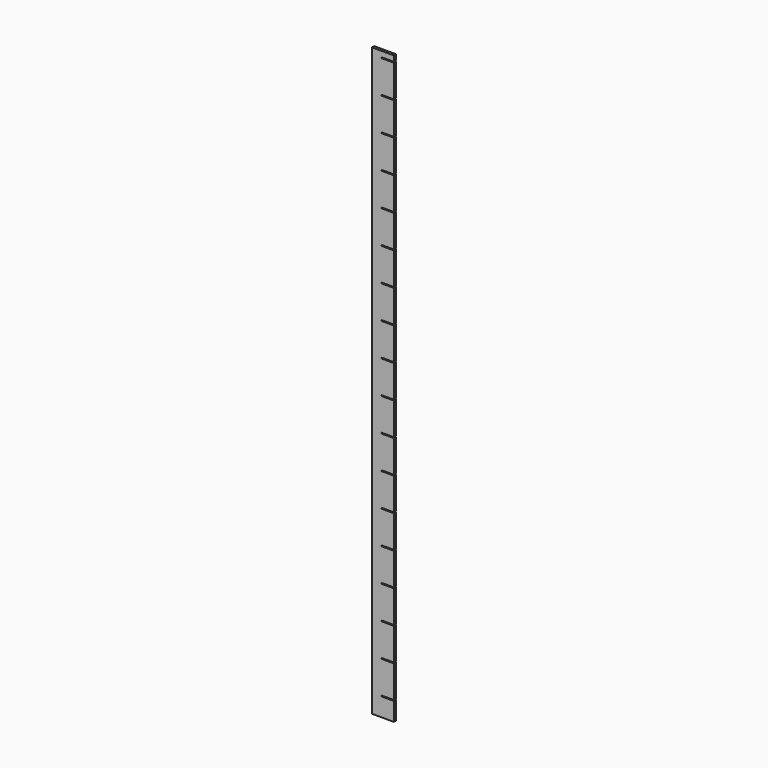
from build123d import *

# Parameters (mm, degrees)
F1_DEPTH = 6.35


with BuildPart() as f1:
    # F0 (on Front) → F1 (new body)
    with BuildSketch(Plane.XZ):
        with BuildLine():
            Line((-25.4, -676.275), (25.4, -676.275))
            Line((25.4, -676.275), (25.4, -633.857))
            Line((25.4, -633.857), (-2.54, -633.857))
            ThreePointArc((-2.54, -633.857), (-3.556, -632.841), (-2.54, -631.825))
            Line((-2.54, -631.825), (25.4, -631.825))
            Line((25.4, -631.825), (25.4, -557.657))
            Line((25.4, -557.657), (-2.54, -557.657))
            ThreePointArc((-2.54, -557.657), (-3.556, -556.641), (-2.54, -555.625))
            Line((-2.54, -555.625), (25.4, -555.625))
            Line((25.4, -555.625), (25.4, -481.457))
            Line((25.4, -481.457), (-2.54, -481.457))
            ThreePointArc((-2.54, -481.457), (-3.556, -480.441), (-2.54, -479.425))
            Line((-2.54, -479.425), (25.4, -479.425))
            Line((25.4, -479.425), (25.4, -405.257))
            Line((25.4, -405.257), (-2.54, -405.257))
            ThreePointArc((-2.54, -405.257), (-3.556, -404.241), (-2.54, -403.225))
            Line((-2.54, -403.225), (25.4, -403.225))
            Line((25.4, -403.225), (25.4, -329.057))
            Line((25.4, -329.057), (-2.54, -329.057))
            ThreePointArc((-2.54, -329.057), (-3.556, -328.041), (-2.54, -327.025))
            Line((-2.54, -327.025), (25.4, -327.025))
            Line((25.4, -327.025), (25.4, -252.857))
            Line((25.4, -252.857), (-2.54, -252.857))
            ThreePointArc((-2.54, -252.857), (-3.556, -251.841), (-2.54, -250.825))
            Line((-2.54, -250.825), (25.4, -250.825))
            Line((25.4, -250.825), (25.4, -176.657))
            Line((25.4, -176.657), (-2.54, -176.657))
            ThreePointArc((-2.54, -176.657), (-3.556, -175.641), (-2.54, -174.625))
            Line((-2.54, -174.625), (25.4, -174.625))
            Line((25.4, -174.625), (25.4, -100.457))
            Line((25.4, -100.457), (-2.54, -100.457))
            ThreePointArc((-2.54, -100.457), (-3.556, -99.441), (-2.54, -98.425))
            Line((-2.54, -98.425), (25.4, -98.425))
            Line((25.4, -98.425), (25.4, -24.257))
            Line((25.4, -24.257), (-2.54, -24.257))
            ThreePointArc((-2.54, -24.257), (-3.556, -23.241), (-2.54, -22.225))
            Line((-2.54, -22.225), (25.4, -22.225))
            Line((25.4, -22.225), (25.4, 51.943))
            Line((25.4, 51.943), (-2.54, 51.943))
            ThreePointArc((-2.54, 51.943), (-3.556, 52.959), (-2.54, 53.975))
            Line((-2.54, 53.975), (25.4, 53.975))
            Line((25.4, 53.975), (25.4, 128.143))
            Line((25.4, 128.143), (-2.54, 128.143))
            ThreePointArc((-2.54, 128.143), (-3.556, 129.159), (-2.54, 130.175))
            Line((-2.54, 130.175), (25.4, 130.175))
            Line((25.4, 130.175), (25.4, 204.343))
            Line((25.4, 204.343), (-2.54, 204.343))
            ThreePointArc((-2.54, 204.343), (-3.556, 205.359), (-2.54, 206.375))
            Line((-2.54, 206.375), (25.4, 206.375))
            Line((25.4, 206.375), (25.4, 280.543))
            Line((25.4, 280.543), (-2.54, 280.543))
            ThreePointArc((-2.54, 280.543), (-3.556, 281.559), (-2.54, 282.575))
            Line((-2.54, 282.575), (25.4, 282.575))
            Line((25.4, 282.575), (25.4, 356.743))
            Line((25.4, 356.743), (-2.54, 356.743))
            ThreePointArc((-2.54, 356.743), (-3.556, 357.759), (-2.54, 358.775))
            Line((-2.54, 358.775), (25.4, 358.775))
            Line((25.4, 358.775), (25.4, 432.943))
            Line((25.4, 432.943), (-2.54, 432.943))
            ThreePointArc((-2.54, 432.943), (-3.556, 433.959), (-2.54, 434.975))
            Line((-2.54, 434.975), (25.4, 434.975))
            Line((25.4, 434.975), (25.4, 509.143))
            Line((25.4, 509.143), (-2.54, 509.143))
            ThreePointArc((-2.54, 509.143), (-3.556, 510.159), (-2.54, 511.175))
            Line((-2.54, 511.175), (25.4, 511.175))
            Line((25.4, 511.175), (25.4, 585.343))
            Line((25.4, 585.343), (-2.54, 585.343))
            ThreePointArc((-2.54, 585.343), (-3.556, 586.359), (-2.54, 587.375))
            Line((-2.54, 587.375), (25.4, 587.375))
            Line((25.4, 587.375), (25.4, 661.543))
            Line((25.4, 661.543), (-2.54, 661.543))
            ThreePointArc((-2.54, 661.543), (-3.556, 662.559), (-2.54, 663.575))
            Line((-2.54, 663.575), (25.4, 663.575))
            Line((25.4, 663.575), (25.4, 676.275))
            Line((25.4, 676.275), (-25.4, 676.275))
            Line((-25.4, 676.275), (-25.4, -676.275))
        make_face()
    extrude(amount=F1_DEPTH)


solid = f1.part
